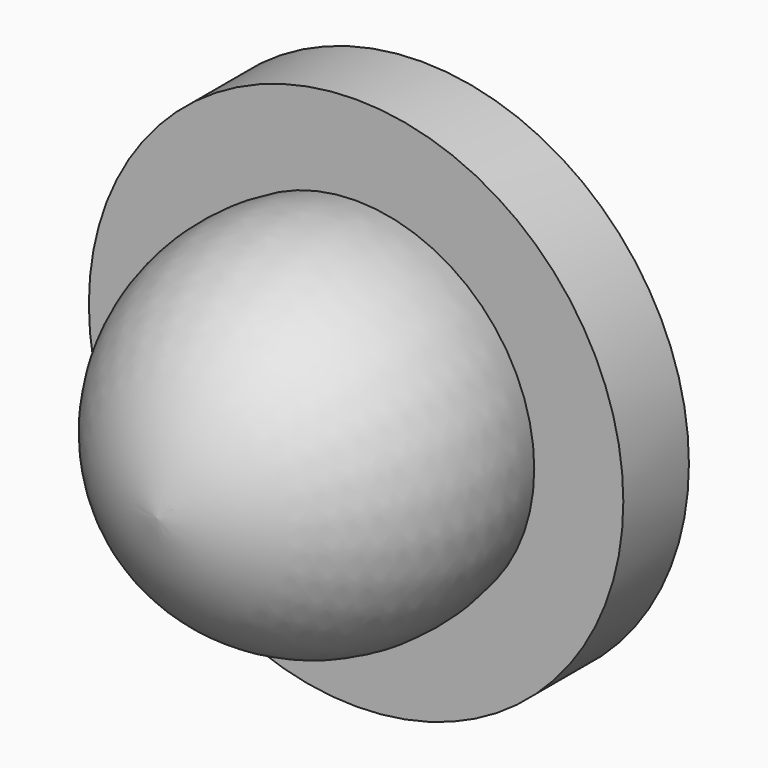
from build123d import *


with BuildPart() as f1:
    # F0 (on Top) → F1 (revolve)
    with BuildSketch(Plane.XY):
        with BuildLine():
            Line((-7.5, 11.120218), (-22.5, 11.120218))
            Line((-22.5, 11.120218), (-22.5, 6.518363))
            Line((-22.5, 6.518363), (-17.5, 6.518363))
            ThreePointArc((-17.5, 6.518363), (-15.647384, -2.729769), (-7.5, -7.481637))
            Line((-7.5, -7.481637), (-7.5, 11.120218))
        make_face()
    revolve(axis=Axis((-7.5, 1.81929, 0), (0, -1, 0)))


solid = f1.part
